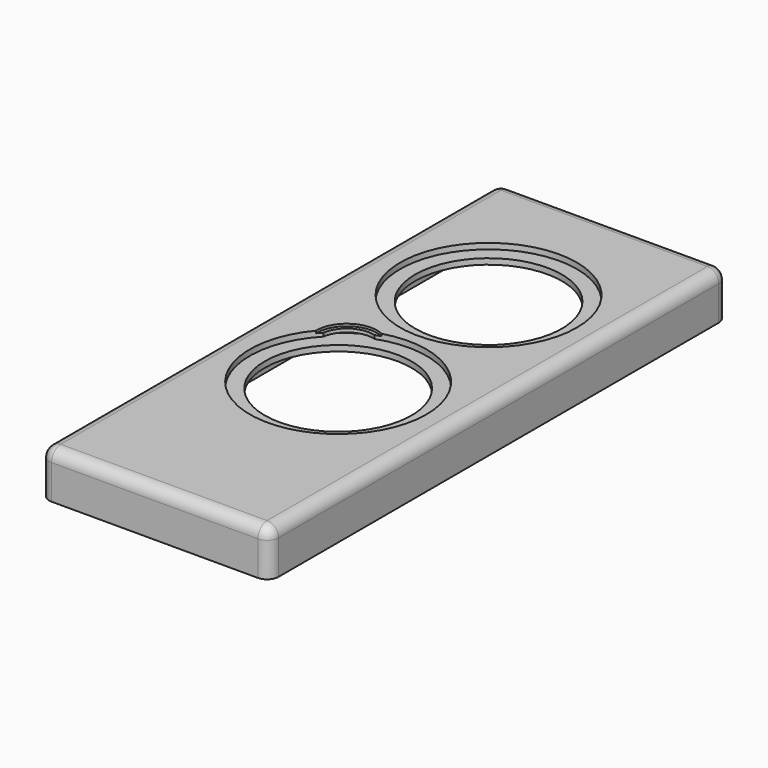
from build123d import *

# Parameters (mm, degrees)
PAD_DEPTH       = 40
FILLET_R        = 10
THICKNESS_T     = -5
SKETCH043_R     = 64
SKETCH043_R_2   = 23.25
POCKET007_DEPTH = 40.001
SKETCH046_R     = 26.5
POCKET009_DEPTH = 2
SKETCH045_R     = 77
POCKET010_DEPTH = 5.3
SKETCH047_R     = 82
SKETCH047_R_2   = 64
PAD028_DEPTH    = 5


with BuildPart() as part:
    # Sketch → Pad (new body)
    with BuildSketch(Plane.XY):
        with BuildLine():
            Line((-100, 490), (-100, 10))
            ThreePointArc((-100, 10), (-97.0710678119, 2.9289321881), (-90, 0))
            Line((-90, 0), (90, 0))
            ThreePointArc((90, 0), (97.0710678119, 2.9289321881), (100, 10))
            Line((100, 10), (100, 490))
            ThreePointArc((100, 490), (97.0710678119, 497.0710678119), (90, 500))
            Line((90, 500), (-90, 500))
            ThreePointArc((-90, 500), (-97.0710678119, 497.0710678119), (-100, 490))
        make_face()
    extrude(amount=-PAD_DEPTH)

    # Fillet
    fillet_edges = [part.edges().sort_by_distance(p)[0] for p in [
        (-100, 250, 0),
        (-97.071068, 2.928932, 0),
        (0, 0, 0),
        (97.071068, 2.928932, 0),
        (100, 250, 0),
        (97.071068, 497.071068, 0),
        (0, 500, 0),
        (-97.071068, 497.071068, 0),
    ]]
    fillet(fillet_edges, radius=FILLET_R)

    # Thickness
    thickness_openings = [part.faces().sort_by_distance(p)[0] for p in [
        (0, 250, -40),
    ]]
    offset(amount=THICKNESS_T, openings=thickness_openings)

    # Sketch043 → Pocket007 (cut, through all)
    with BuildSketch(Plane.XY):
        with Locations((0, 200)):
            Circle(SKETCH043_R)
        with Locations((-32.5, 250)):
            Circle(SKETCH043_R_2)
        with Locations((0, 364)):
            Circle(SKETCH043_R)
    extrude(amount=-POCKET007_DEPTH, mode=Mode.SUBTRACT)

    # Sketch046 (on Face9 of Pad) → Pocket009 (cut)
    with BuildSketch(Plane.XY):
        with Locations((-32.5, 250)):
            Circle(SKETCH046_R)
    extrude(amount=-POCKET009_DEPTH, mode=Mode.SUBTRACT)

    # Sketch045 (on Face9 of Pad) → Pocket010 (cut)
    with BuildSketch(Plane.XY):
        with Locations((0, 200)):
            Circle(SKETCH045_R)
        with Locations((0, 364)):
            Circle(SKETCH045_R)
    extrude(amount=-POCKET010_DEPTH, mode=Mode.SUBTRACT)

    # Sketch047 (on Face31 of Thickness) → Pad028 (join)
    with BuildSketch(Plane(origin=(0, 0, -5), x_dir=(-1, 0, 0), z_dir=(0, 0, -1))):
        with Locations((0, 200)):
            Circle(SKETCH047_R)
        with Locations((0, 200)):
            Circle(SKETCH047_R_2, mode=Mode.SUBTRACT)
        with Locations((0, 364)):
            Circle(SKETCH047_R)
        with Locations((0, 364)):
            Circle(SKETCH047_R_2, mode=Mode.SUBTRACT)
    extrude(amount=PAD028_DEPTH)


solid = part.part
